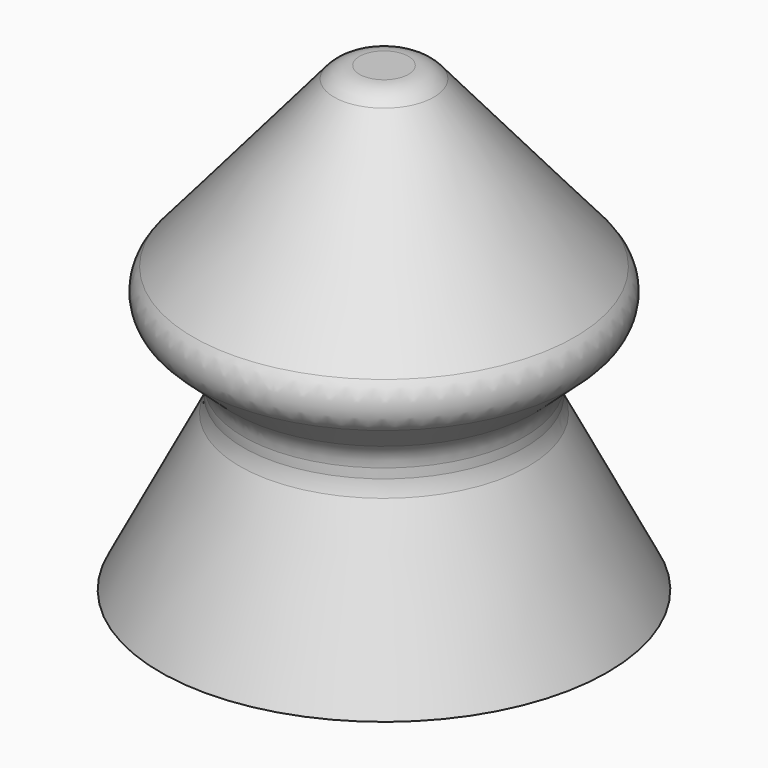
from build123d import *

# Parameters (mm, degrees)
F2_R = 1


with BuildPart() as f1:
    # F0 (on Front) → F1 (revolve)
    with BuildSketch(Plane.XZ):
        Polygon((5.3116780147, 4.4), (5.8116780147, 4.4), (5.8116780147, 5.9), (4.6192167893, 5.9), (-0.5253184439, -0.1362546736), (1.6116780147, -2.0664450233), (1.6116780147, -3.0388837995), (-0.8728924878, -7.9), (0.8116780147, -7.9), (3.1116780147, -3.4), (3.1116780147, -1.4), (1.5616780147, 0), align=None)
    revolve(axis=Axis((5.8116780147, 0, 1.9449143492), (0, 0, -1)))

    # F2
    f2_edges = [f1.edges().sort_by_distance(p)[0] for p in [
        (12.148674, 0, -0.136255),
        (7.004139, 0, 5.9),
        (10.011678, 0, -2.066445),
        (10.011678, 0, -3.038884),
    ]]
    fillet(f2_edges, radius=F2_R)


solid = f1.part
